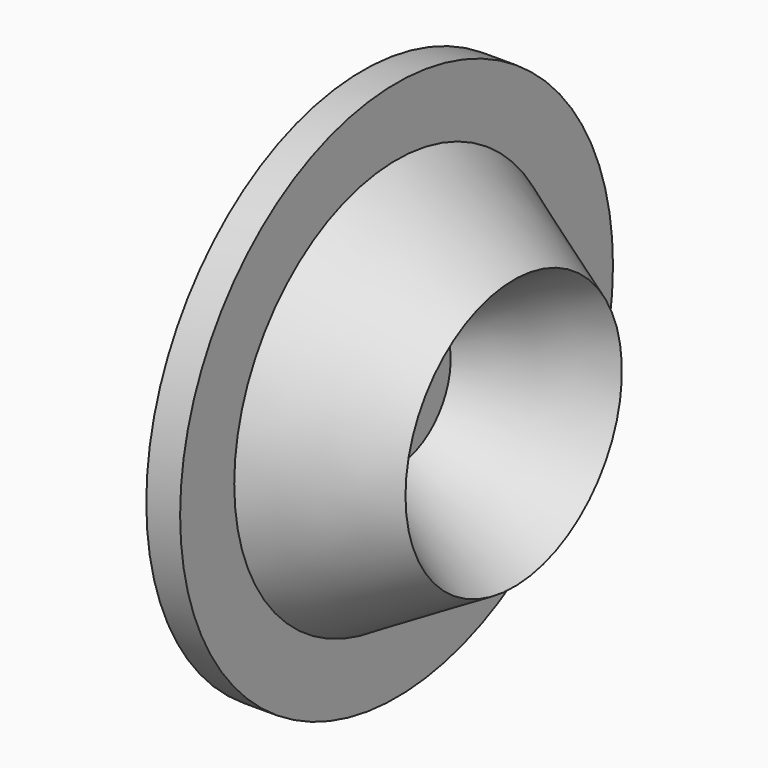
from build123d import *


with BuildPart() as f1:
    # F0 (on Top) → F1 (revolve)
    with BuildSketch(Plane.XY):
        Polygon((4, 0), (0, 0), (0, -32), (4, -32), (4, -24), (17.856406, -16), (4, -8), align=None)
        Polygon((4, -19.381198), (4, -12.618802), (9.856406, -16), align=None, mode=Mode.SUBTRACT)
        Polygon((9.856406, -16), (4, -12.618802), (4, -19.381198), align=None)
    revolve(axis=Axis((2, 0, 0), (-1, 0, 0)))


solid = f1.part
